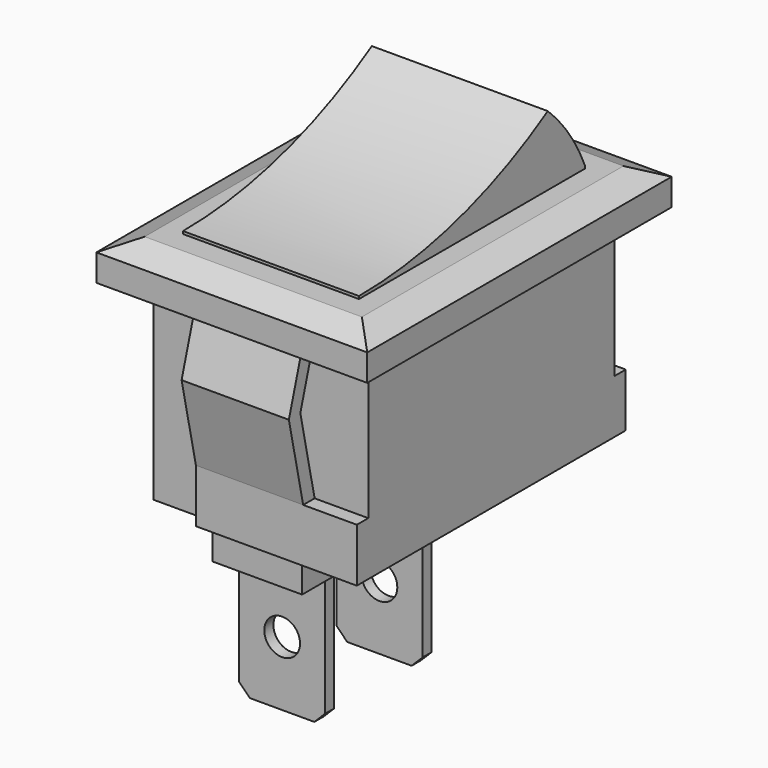
from build123d import *

# Parameters (mm, degrees)
SKETCH001_W      = 9
SKETCH001_H      = 3
EXTRUDE001_DEPTH = 0.8
SKETCH002_W      = 9
SKETCH002_H      = 3
EXTRUDE002_DEPTH = 0.8
EXTRUDE005_DEPTH = 15.15
EXTRUDE004_DEPTH = 21.28
SKETCH003_W      = 15.15
SKETCH003_H      = 21.28
EXTRUDE003_DEPTH = 2.15
EXTRUDE006_DEPTH = 6
EXTRUDE007_DEPTH = 9.84
SKETCH008_W      = 5
SKETCH008_H      = 4.1
EXTRUDE008_DEPTH = 1.8
SKETCH010_R      = 1
EXTRUDE010_DEPTH = 8
SKETCH009_W      = 4.8
SKETCH009_H      = 0.64
EXTRUDE009_DEPTH = 7.2
SKETCH_W         = 12
SKETCH_H         = 17.2
EXTRUDE_DEPTH    = 11


with BuildPart() as extrude001:
    # Sketch001 (on Face1 of Extrude) → Extrude001 (new body)
    with BuildSketch(Plane.XZ):
        with Locations((7.5, 1.5)):
            Rectangle(SKETCH001_W, SKETCH001_H)
    extrude(amount=EXTRUDE001_DEPTH)


with BuildPart() as extrude002:
    # Sketch002 (on Face3 of Extrude) → Extrude002 (new body)
    with BuildSketch(Plane(origin=(0, 17.2, 0), x_dir=(-1, 0, 0), z_dir=(0, 1, 0))):
        with Locations((-7.5, 1.5)):
            Rectangle(SKETCH002_W, SKETCH002_H)
    extrude(amount=EXTRUDE002_DEPTH)


with BuildPart() as extrude005:
    # Sketch005 (on Face3 of Extrude003) → Extrude005 (new body)
    with BuildSketch(Plane.YZ.offset(13.575)):
        Polygon((19.24, 13.15), (17.74, 13.15), (19.24, 12.5), align=None)
        Polygon((-2.04, 13.15), (-0.54, 13.15), (-2.04, 12.5), align=None)
    extrude(amount=-EXTRUDE005_DEPTH)


with BuildPart() as fusion:
    # Sketch004 (on Face4 of Extrude003) → Extrude004 (new body)
    with BuildSketch(Plane(origin=(0, 19.24, 0), x_dir=(-1, 0, 0), z_dir=(0, 1, 0))):
        Polygon((-12.075, 13.15), (-13.575, 12.5), (-13.575, 13.15), align=None)
        Polygon((1.575, 13.15), (1.575, 12.5), (0.075, 13.15), align=None)
    extrude(amount=-EXTRUDE004_DEPTH)

    # Fusion: union Extrude005
    add(extrude005.part)


with BuildPart() as cut:
    # Sketch003 (on Face6 of Extrude) → Extrude003 (new body)
    with BuildSketch(Plane.XY.offset(11)):
        with Locations((6, 8.6)):
            Rectangle(SKETCH003_W, SKETCH003_H)
    extrude(amount=EXTRUDE003_DEPTH)

    # Cut: cut Fusion
    add(fusion.part, mode=Mode.SUBTRACT)


with BuildPart() as extrude006:
    # Sketch006 (on Face2 of Extrude) → Extrude006 (new body)
    with BuildSketch(Plane.YZ.offset(3)):
        Polygon((17.2, 3), (18.2, 7.6), (17.2, 11), (18, 11), (19, 7.6), (18, 3), align=None)
        Polygon((-0.8, 3), (-1.8, 7.6), (-0.8, 11), (0, 11), (-1, 7.6), (0, 3), align=None)
    extrude(amount=EXTRUDE006_DEPTH)


with BuildPart() as extrude007:
    # Sketch007 (on Face4 of Extrude) → Extrude007 (new body)
    with BuildSketch(Plane(origin=(1.08, 0, 0), x_dir=(0, -1, 0), z_dir=(-1, 0, 0))):
        with BuildLine():
            Line((-0.7, 11), (-0.7, 13.3))
            ThreePointArc((-13.9, 17.04), (-7.559803, 14.253048), (-0.7, 13.3))
            ThreePointArc((-13.9, 17.04), (-15.395706, 15.306052), (-16.5, 13.3))
            Line((-16.5, 11), (-16.5, 13.3))
            Line((-16.5, 11), (-0.7, 11))
        make_face()
    extrude(amount=-EXTRUDE007_DEPTH)


with BuildPart() as extrude008:
    # Sketch008 (on Face5 of Extrude) → Extrude008 (new body)
    with BuildSketch(Plane(origin=(0, 0, 0), x_dir=(1, 0, 0), z_dir=(0, 0, -1))):
        with Locations((6, -1.8)):
            Rectangle(SKETCH008_W, SKETCH008_H)
        with Locations((6, -8.6)):
            Rectangle(SKETCH008_W, SKETCH008_H)
        with Locations((6, -15.4)):
            Rectangle(SKETCH008_W, SKETCH008_H)
    extrude(amount=EXTRUDE008_DEPTH)


with BuildPart() as extrude010:
    # Sketch010 (on Face10 of Extrude009) → Extrude010 (new body)
    with BuildSketch(Plane.XZ.offset(-1.48)):
        with Locations((6, -5.4)):
            Circle(SKETCH010_R)
        Polygon((3.6, -9), (4.2, -9), (3.6, -8.4), align=None)
        Polygon((8.4, -9), (7.8, -9), (8.4, -8.4), align=None)
    extrude(amount=-EXTRUDE010_DEPTH)


with BuildPart() as cut001:
    # Sketch009 (on Face6 of Extrude008) → Extrude009 (new body)
    with BuildSketch(Plane(origin=(0, 0, -1.8), x_dir=(1, 0, 0), z_dir=(0, 0, -1))):
        with Locations((6, -1.8)):
            Rectangle(SKETCH009_W, SKETCH009_H)
        with Locations((6, -8.6)):
            Rectangle(SKETCH009_W, SKETCH009_H)
    extrude(amount=EXTRUDE009_DEPTH)

    # Cut001: cut Extrude010
    add(extrude010.part, mode=Mode.SUBTRACT)


with BuildPart() as fusion001:
    # Sketch → Extrude (new body)
    with BuildSketch(Plane.XY):
        with Locations((6, 8.6)):
            Rectangle(SKETCH_W, SKETCH_H)
    extrude(amount=EXTRUDE_DEPTH)

    # Fusion001: union Extrude001, Extrude002, Cut, Extrude006, Extrude007, Extrude008, Cut001
    add(extrude001.part)
    add(extrude002.part)
    add(cut.part)
    add(extrude006.part)
    add(extrude007.part)
    add(extrude008.part)
    add(cut001.part)


solid = fusion001.part
